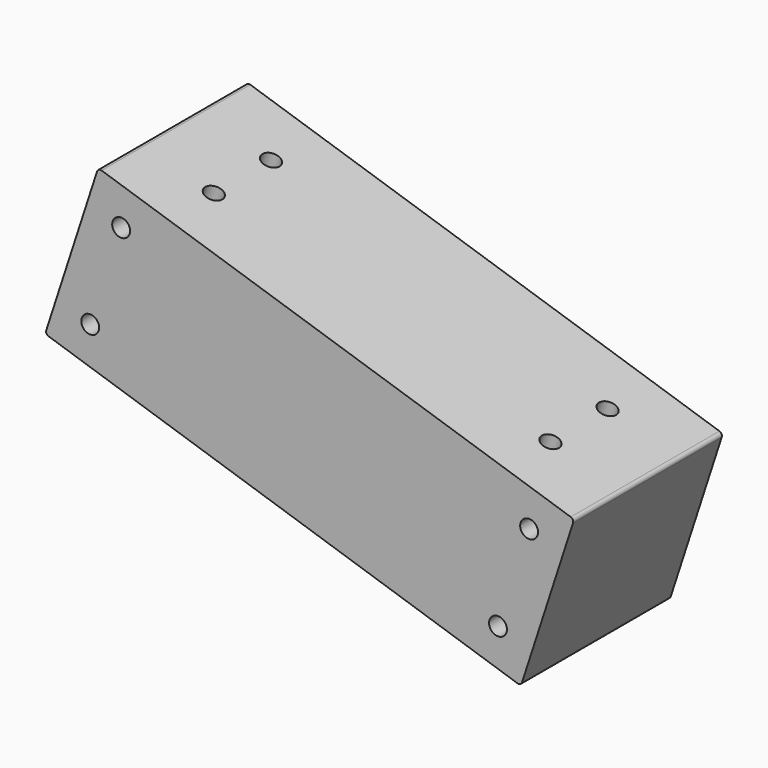
from build123d import *

# Parameters (mm, degrees)
F0_R     = 1.25
F1_DEPTH = 26
F2_R     = 1.25
F3_DEPTH = 25
F4_DEPTH = 16.5
F5_W     = 5
F5_H     = 10
F6_DEPTH = 14
F7_R     = 1
F8_R     = 0.5


with BuildPart() as f1:
    # F0 (on Front) → F1 (new body)
    with BuildSketch(Plane.XZ):
        Polygon((-63.544681223, 48.3711008589), (-70.961089088, 25.5457444679), (-4.4139098395, 3.8321440613), (3.0292749177, 26.7399112527), align=None)
        with Locations((-7.6221936302, 10.1384017438)):
            Circle(F0_R, mode=Mode.SUBTRACT)
        with Locations((-3.2710926357, 23.5297136431)):
            Circle(F0_R, mode=Mode.SUBTRACT)
        with Locations((-64.662632986, 28.7500592351)):
            Circle(F0_R, mode=Mode.SUBTRACT)
        with Locations((-60.3344836134, 42.0707333056)):
            Circle(F0_R, mode=Mode.SUBTRACT)
    extrude(amount=F1_DEPTH)

    # F2 (on face) → F3 (cut)
    with BuildSketch(Plane(origin=(0.7053652428, 0, 2.1617818497), x_dir=(0.9506732609, 0, -0.3101940539), z_dir=(-0.3101940539, 0, -0.9506732609))):
        with Locations((-65.1349479941, 18)):
            Circle(F2_R)
        with Locations((-65.1348943617, 8)):
            Circle(F2_R)
        with Locations((-15.6349479941, 18)):
            Circle(F2_R)
        with Locations((-15.6348943617, 8)):
            Circle(F2_R)
    extrude(amount=-F3_DEPTH, mode=Mode.SUBTRACT)

    # F2 (on face) → F4 (cut)
    with BuildSketch(Plane(origin=(0.7053652428, 0, 2.1617818497), x_dir=(0.9506732609, 0, -0.3101940539), z_dir=(-0.3101940539, 0, -0.9506732609))):
        Polygon((-19.3849479941, 23.5), (-61.3849479941, 23.5), (-61.3849479941, 15.5), (-64.3849479941, 15.5), (-64.3849479941, 10.5), (-61.3849479941, 10.5), (-61.3849479941, 2.5), (-19.3849479941, 2.5), align=None)
    extrude(amount=-F4_DEPTH, mode=Mode.SUBTRACT)

    # F5 (on face) → F6 (cut)
    with BuildSketch(Plane(origin=(-71.6926139783, 0, 23.294342356), x_dir=(0, -1, 0), z_dir=(-0.9510565163, 0, 0.3090169944))):
        with Locations((13, 13.8672642722)):
            Rectangle(F5_W, F5_H)
    extrude(amount=-F6_DEPTH, mode=Mode.SUBTRACT)

    # F7 (call 1 of 4: OpenCascade refuses the feature's edges together)
    f7_edges = [f1.edges().sort_by_distance(p)[0] for p in [
        (-67.407394, -10.5, 36.482894),
        (-67.407394, -15.5, 36.482894),
        (-65.862309, -13, 41.238177),
        (-68.952479, -13, 31.727612),
    ]]
    fillet(f7_edges, radius=F7_R)

    # F7#2 (call 2 of 4)
    f7_2_edges = [f1.edges().sort_by_distance(p)[0] for p in [
        (-55.092562, -15.5, 29.046082),
    ]]
    fillet(f7_2_edges, radius=F7_R)

    # F7#3 (call 3 of 4)
    f7_3_edges = [f1.edges().sort_by_distance(p)[0] for p in [
        (-55.092562, -10.5, 29.046082),
    ]]
    fillet(f7_3_edges, radius=F7_R)

    # F7#4 (call 4 of 4)
    f7_4_edges = [f1.edges().sort_by_distance(p)[0] for p in [
        (-58.483196, -13, 28.325936),
    ]]
    fillet(f7_4_edges, radius=F7_R)

    # F8
    f8_edges = [f1.edges().sort_by_distance(p)[0] for p in [
        (-57.651663, -20, 21.203028),
        (-60.503683, -13, 22.13361),
        (-59.55301, -10.5, 21.823416),
        (-57.930109, -10.207107, 21.293881),
        (-37.687525, -23.5, 14.688953),
        (-55.092562, -23.5, 29.046082),
        (-52.533462, -20, 36.889137),
        (-32.569323, -23.5, 30.375061),
        (-52.533462, -6, 36.889137),
        (-55.092562, -2.5, 29.046082),
        (-32.569323, -2.5, 30.375061),
        (-37.687525, -2.5, 14.688953),
        (-15.164286, -2.5, 16.017932),
        (-15.164286, -23.5, 16.017932),
        (-17.723386, -13, 8.174877),
        (-12.605185, -13, 23.860986),
        (-57.651663, -6, 21.203028),
        (-70.961089, -13, 25.545744),
        (-4.41391, -13, 3.832144),
        (3.029275, -13, 26.739911),
        (-63.544681, -13, 48.371101),
    ]]
    fillet(f8_edges, radius=F8_R)


solid = f1.part
